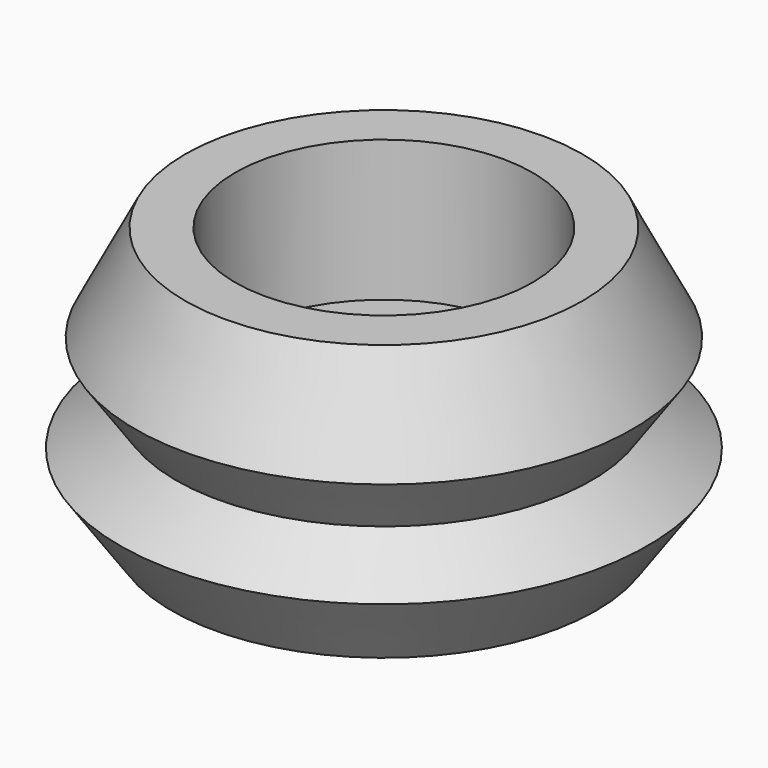
from build123d import *

# Parameters (mm, degrees)
F3_R     = 14.779857
F4_DEPTH = 14


with BuildPart() as f1:
    # F0 (on Front) → F1 (revolve)
    with BuildSketch(Plane.XZ):
        Polygon((-8.250609, 0), (0, 7.366642), (0, 26.66717), (-19.742534, 26.66717), (-24.690515, 17.045088), (-20.648276, 11.270438), (-26.22515, 7.366642), (-21.068521, 0), align=None)
    revolve(axis=Axis((0, 0, 17.016906), (0, 0, -1)))

    # F3 (on face) → F4 (cut)
    with BuildSketch(Plane.XY.offset(26.66717)):
        Circle(F3_R)
    extrude(amount=-F4_DEPTH, mode=Mode.SUBTRACT)


solid = f1.part
